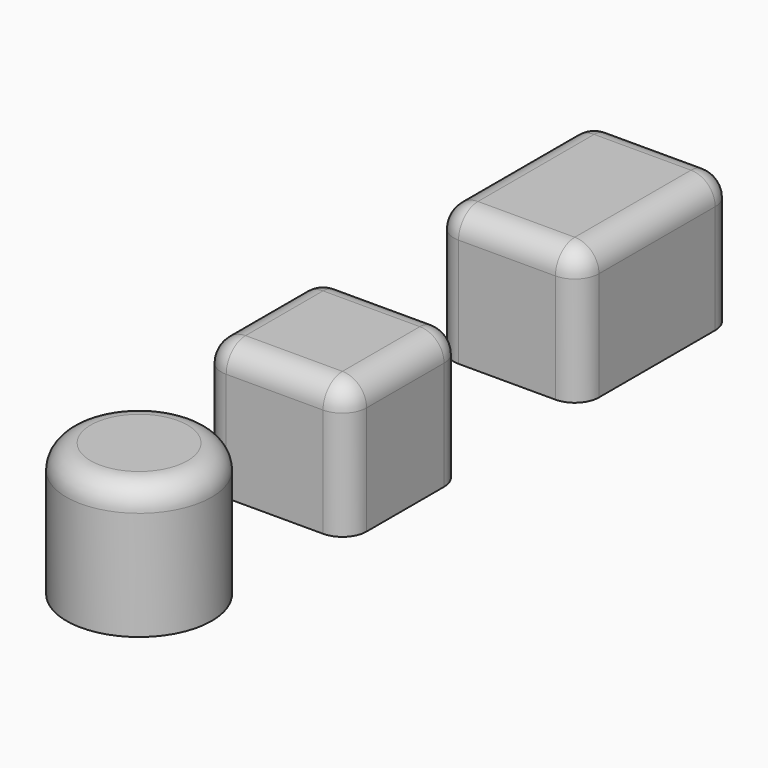
from build123d import *

# Parameters (mm, degrees)
F1_DEPTH = 5.5
F2_DEPTH = 5.5
F0_R     = 3
F3_R     = 1
F4_R     = 1
F5_R     = 1


with BuildPart() as f1:
    # F0 (on Top) → F1 (new body)
    with BuildSketch(Plane.XY):
        with BuildLine():
            Line((2, 0), (-2, 0))
            ThreePointArc((-2, 0), (-2.7071067812, -0.2928932188), (-3, -1))
            Line((-3, -1), (-3, -7))
            ThreePointArc((-3, -7), (-2.7071067812, -7.7071067812), (-2, -8))
            Line((-2, -8), (2, -8))
            ThreePointArc((2, -8), (2.7071067812, -7.7071067812), (3, -7))
            Line((3, -7), (3, -1))
            ThreePointArc((3, -1), (2.7071067812, -0.2928932188), (2, 0))
        make_face()
    extrude(amount=F1_DEPTH)

    # F5
    f5_edges = [f1.edges().sort_by_distance(p)[0] for p in [
        (0, 0, 5.5),
        (-2.707107, -0.292893, 5.5),
        (-3, -4, 5.5),
        (-2.707107, -7.707107, 5.5),
        (0, -8, 5.5),
        (2.707107, -7.707107, 5.5),
        (3, -4, 5.5),
        (2.707107, -0.292893, 5.5),
    ]]
    fillet(f5_edges, radius=F5_R)


with BuildPart() as f2:
    # F0 (on Top) → F2 (new body)
    with BuildSketch(Plane.XY):
        with BuildLine():
            Line((2, -14), (-2, -14))
            ThreePointArc((-2, -14), (-2.7071067812, -14.2928932188), (-3, -15))
            Line((-3, -15), (-3, -19))
            ThreePointArc((-3, -19), (-2.7071067812, -19.7071067812), (-2, -20))
            Line((-2, -20), (2, -20))
            ThreePointArc((2, -20), (2.7071067812, -19.7071067812), (3, -19))
            Line((3, -19), (3, -15))
            ThreePointArc((3, -15), (2.7071067812, -14.2928932188), (2, -14))
        make_face()
    extrude(amount=F2_DEPTH)

    # F4
    f4_edges = [f2.edges().sort_by_distance(p)[0] for p in [
        (3, -17, 5.5),
        (2.707107, -14.292893, 5.5),
        (0, -14, 5.5),
        (-2.707107, -14.292893, 5.5),
        (-3, -17, 5.5),
        (-2.707107, -19.707107, 5.5),
        (0, -20, 5.5),
        (2.707107, -19.707107, 5.5),
    ]]
    fillet(f4_edges, radius=F4_R)


with BuildPart() as f2b:
    # F0 (on Top) → F2, piece 2 (new body)
    with BuildSketch(Plane.XY):
        with Locations((0, -27)):
            Circle(F0_R)
    extrude(amount=F2_DEPTH)

    # F3
    f3_edges = [f2b.edges().sort_by_distance(p)[0] for p in [
        (-3, -27, 5.5),
    ]]
    fillet(f3_edges, radius=F3_R)


solid = Compound([f1.part, f2.part, f2b.part])
